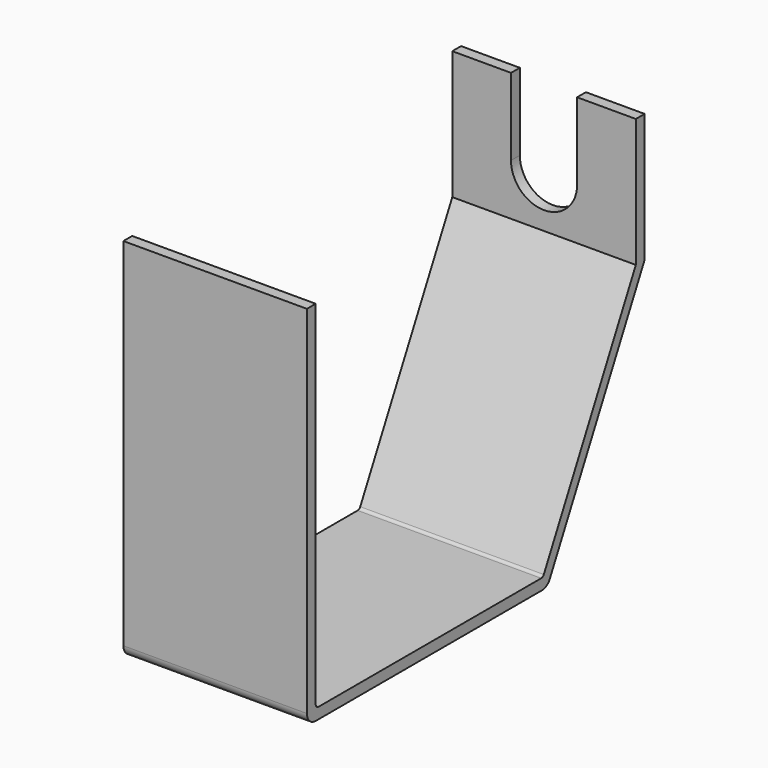
from build123d import *

# Parameters (mm, degrees)
F2_DEPTH = 25
F3_DEPTH = 25


with BuildPart() as f2:
    # F1 (on Right) → F2 (new body, symmetric)
    with BuildSketch(Plane.YZ):
        with BuildLine():
            ThreePointArc((-89.915201, -9.228394), (-90.622307, -8.935501), (-90.915201, -8.228394))
            Line((-90.915201, -8.228394), (-90.915201, 87.817343))
            Line((-90.915201, 87.817343), (-93.915201, 87.817343))
            Line((-93.915201, 87.817343), (-93.915201, -9.228394))
            ThreePointArc((-93.915201, -9.228394), (-93.036521, -11.349715), (-90.915201, -12.228394))
            Line((-90.915201, -12.228394), (-13.896061, -12.228394))
            ThreePointArc((-13.896061, -12.228394), (-12.328566, -11.786315), (-11.223042, -10.590366))
            Line((-11.223042, -10.590366), (21.084799, 52.817343))
            Line((21.084799, 52.817343), (21.084799, 87.817343))
            Line((21.084799, 87.817343), (18.084799, 87.817343))
            Line((18.084799, 87.817343), (18.084799, 52.817343))
            Line((18.084799, 52.817343), (-13.250877, -8.682385))
            ThreePointArc((-13.250877, -8.682385), (-13.619385, -9.081035), (-14.141883, -9.228394))
            Line((-14.141883, -9.228394), (-89.915201, -9.228394))
        make_face()
    extrude(amount=F2_DEPTH, both=True)

    # F0 (on Front) → F3 (cut)
    with BuildSketch(Plane.XZ):
        with BuildLine():
            ThreePointArc((-9, 66.817343), (0, 57.817343), (9, 66.817343))
            ThreePointArc((9, 66.817343), (0, 75.817343), (-9, 66.817343))
        make_face()
        with BuildLine():
            Line((9, 66.817343), (9, 87.817343))
            Line((9, 87.817343), (-9, 87.817343))
            Line((-9, 87.817343), (-9, 66.817343))
            ThreePointArc((-9, 66.817343), (0, 75.817343), (9, 66.817343))
        make_face()
    extrude(amount=-F3_DEPTH, mode=Mode.SUBTRACT)


solid = f2.part
